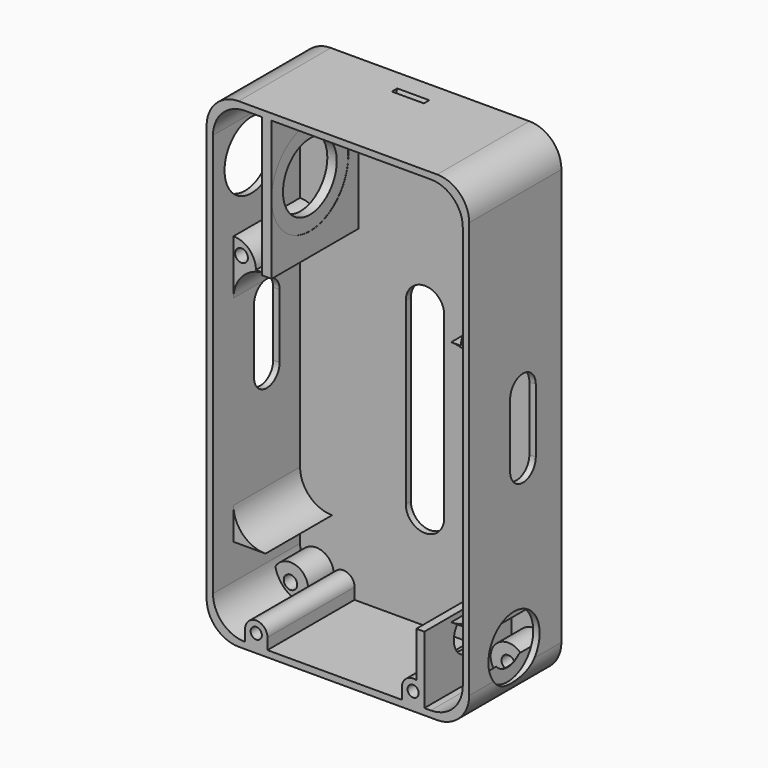
from build123d import *

# Parameters (mm, degrees)
CYLINDER105_R             = 6
CYLINDER105_DEPTH         = 2
BOX042_W                  = 12
BOX042_H                  = 2
BOX042_DEPTH              = 56
CYLINDER106_R             = 6
CYLINDER106_DEPTH         = 2
CYLINDER104_W             = 5
CYLINDER104_H             = 82
CYLINDER104_ANGLE         = 180
BOX041_W                  = 82
BOX041_H                  = 5
BOX041_DEPTH              = 10
CUT048_PLACEMENT_ANGLE    = 180
CYLINDER103_W             = 5
CYLINDER103_H             = 82
CYLINDER103_ANGLE         = 180
BOX040_W                  = 82
BOX040_H                  = 5
BOX040_DEPTH              = 10
BOX039_W                  = 82
BOX039_H                  = 30
BOX039_DEPTH              = 10
CUT049_PLACEMENT_ANGLE    = 90
CYLINDER097_R             = 10
CYLINDER097_DEPTH         = 5
CYLINDER096_R             = 6
CYLINDER096_DEPTH         = 20
FUSION028_PLACEMENT_ANGLE = 90
TUBE_R                    = 7
TUBE_R_2                  = 5
TUBE_DEPTH                = 10
CYLINDER099_R             = 15
CYLINDER099_DEPTH         = 2.25
CYLINDER098_R             = 10.5
CYLINDER098_DEPTH         = 36
FUSION029_PLACEMENT_ANGLE = 90
CYLINDER102_W             = 5
CYLINDER102_H             = 60
CYLINDER102_ANGLE         = 90
BOX038_W                  = 3
BOX038_H                  = 43.5
BOX038_DEPTH              = 34
CYLINDER093_R             = 2.1
CYLINDER093_DEPTH         = 7
CYLINDER094_R             = 2.1
CYLINDER094_DEPTH         = 7
CYLINDER095_R             = 2.1
CYLINDER095_DEPTH         = 7
CYLINDER092_R             = 2.1
CYLINDER092_DEPTH         = 7
CYLINDER087_R             = 3.75
CYLINDER087_DEPTH         = 7
CYLINDER089_R             = 3.75
CYLINDER089_DEPTH         = 7
CYLINDER091_R             = 3.75
CYLINDER091_DEPTH         = 7
CYLINDER085_R             = 3.75
CYLINDER085_DEPTH         = 7
CYLINDER086_R             = 5.5
CYLINDER086_DEPTH         = 12
CYLINDER088_R             = 5.5
CYLINDER088_DEPTH         = 12
CYLINDER090_R             = 5.5
CYLINDER090_DEPTH         = 12
CYLINDER030_R             = 2
CYLINDER030_DEPTH         = 8
CYLINDER029_R             = 2
CYLINDER029_DEPTH         = 8
CYLINDER027_W             = 7
CYLINDER027_H             = 26
CYLINDER027_ANGLE         = 90
CYLINDER028_W             = 7
CYLINDER028_H             = 26
CYLINDER028_ANGLE         = 90
CYLINDER022_R             = 1.75
CYLINDER022_DEPTH         = 8
CYLINDER026_R             = 7
CYLINDER026_DEPTH         = 5
CYLINDER025_R             = 6
CYLINDER025_DEPTH         = 20
FUSION007_PLACEMENT_ANGLE = 90
CYLINDER024_R             = 1.75
CYLINDER024_DEPTH         = 8
CYLINDER023_R             = 3.5
CYLINDER023_DEPTH         = 34
BOX022_W                  = 7
BOX022_H                  = 34
BOX022_DEPTH              = 3.5
BOX023_W                  = 7
BOX023_H                  = 34
BOX023_DEPTH              = 3.5
BOX024_W                  = 2.5
BOX024_H                  = 34
BOX024_DEPTH              = 17.5
CYLINDER017_W             = 10
CYLINDER017_H             = 26
CYLINDER017_ANGLE         = 90
BOX018_W                  = 10
BOX018_H                  = 26
BOX018_DEPTH              = 10
CUT018_PLACEMENT_ANGLE    = 180
CYLINDER018_W             = 10
CYLINDER018_H             = 26
CYLINDER018_ANGLE         = 90
BOX019_W                  = 10
BOX019_H                  = 26
BOX019_DEPTH              = 10
CUT019_PLACEMENT_ANGLE    = 90
CYLINDER019_W             = 10
CYLINDER019_H             = 26
CYLINDER019_ANGLE         = 90
BOX020_W                  = 10
BOX020_H                  = 26
BOX020_DEPTH              = 10
CYLINDER020_W             = 10
CYLINDER020_H             = 26
CYLINDER020_ANGLE         = 90
BOX021_W                  = 10
BOX021_H                  = 26
BOX021_DEPTH              = 10
CUT021_PLACEMENT_ANGLE    = 90
CYLINDER014_W             = 10
CYLINDER014_H             = 34
CYLINDER014_ANGLE         = 90
BOX015_W                  = 10
BOX015_H                  = 34
BOX015_DEPTH              = 10
CUT013_PLACEMENT_ANGLE    = 180
CYLINDER015_W             = 10
CYLINDER015_H             = 34
CYLINDER015_ANGLE         = 90
BOX016_W                  = 10
BOX016_H                  = 34
BOX016_DEPTH              = 10
CUT014_PLACEMENT_ANGLE    = 180
CYLINDER016_W             = 10
CYLINDER016_H             = 34
CYLINDER016_ANGLE         = 90
BOX017_W                  = 10
BOX017_H                  = 34
BOX017_DEPTH              = 10
CUT015_PITCH_ANGLE        = -90
CUT015_PLACEMENT_ANGLE    = -180
CYLINDER013_W             = 10
CYLINDER013_H             = 34
CYLINDER013_ANGLE         = 90
BOX013_W                  = 10
BOX013_H                  = 34
BOX013_DEPTH              = 10
CUT012_PITCH_ANGLE        = 90
CUT012_PLACEMENT_ANGLE    = -180
BOX014_W                  = 78
BOX014_H                  = 34
BOX014_DEPTH              = 146
CYLINDER009_W             = 10
CYLINDER009_H             = 36
CYLINDER009_ANGLE         = 90
BOX009_W                  = 10
BOX009_H                  = 36
BOX009_DEPTH              = 10
CUT007_PLACEMENT_ANGLE    = 180
CYLINDER010_W             = 10
CYLINDER010_H             = 36
CYLINDER010_ANGLE         = 90
BOX010_W                  = 10
BOX010_H                  = 36
BOX010_DEPTH              = 10
CUT008_PLACEMENT_ANGLE    = 180
CYLINDER011_W             = 10
CYLINDER011_H             = 36
CYLINDER011_ANGLE         = 90
BOX011_W                  = 10
BOX011_H                  = 36
BOX011_DEPTH              = 10
CUT009_PITCH_ANGLE        = -90
CUT009_PLACEMENT_ANGLE    = -180
CYLINDER008_W             = 10
CYLINDER008_H             = 36
CYLINDER008_ANGLE         = 90
BOX007_W                  = 10
BOX007_H                  = 36
BOX007_DEPTH              = 10
CUT006_PITCH_ANGLE        = 90
CUT006_PLACEMENT_ANGLE    = -180
BOX008_W                  = 82
BOX008_H                  = 36
BOX008_DEPTH              = 150
CYLINDER021_R             = 3.5
CYLINDER021_DEPTH         = 34
CYLINDER084_R             = 5.5
CYLINDER084_DEPTH         = 12


with BuildPart() as cylinder105:
    # Cylinder105 → Cylinder105 (new body)
    with BuildSketch(Plane(origin=(6, 0, 0), x_dir=(-1, 0, 0), z_dir=(0, 1, 0))):
        Circle(CYLINDER105_R)
    extrude(amount=CYLINDER105_DEPTH)


with BuildPart() as cube034:
    # Box042 → Box042 (new body)
    with BuildSketch(Plane.XY):
        with Locations((6, 1)):
            Rectangle(BOX042_W, BOX042_H)
    extrude(amount=BOX042_DEPTH)


with BuildPart() as obj1:
    # Cylinder106 → Cylinder106 (new body)
    with BuildSketch(Plane(origin=(6, 0, 56), x_dir=(-1, 0, 0), z_dir=(0, 1, 0))):
        Circle(CYLINDER106_R)
    extrude(amount=CYLINDER106_DEPTH)

    # Fusion035: union Cylinder105, Cube034
    add(cylinder105.part)
    add(cube034.part)


with BuildPart() as obj1_1:
    # Fusion035 placement: moved
    add(obj1.part.moved(Location((33, 24, 31.5))))


with BuildPart() as cylinder104:
    # Cylinder104 → Cylinder104 (revolve)
    with BuildSketch(Plane(origin=(0, 5, 5), x_dir=(0, 0, 1), z_dir=(0, 1, 0))):
        with Locations((2.5, 41)):
            Rectangle(CYLINDER104_W, CYLINDER104_H)
    revolve(axis=Axis((0, 5, 5), (1, 0, 0)), revolution_arc=CYLINDER104_ANGLE)


with BuildPart() as cornercuts001:
    # Box041 → Box041 (new body)
    with BuildSketch(Plane.XY):
        with Locations((41, 2.5)):
            Rectangle(BOX041_W, BOX041_H)
    extrude(amount=BOX041_DEPTH)

    # Cut048: cut Cylinder104
    add(cylinder104.part, mode=Mode.SUBTRACT)


with BuildPart() as cornercuts001_1:
    # Cut048 placement: moved
    add(cornercuts001.part.moved(Location((0, 30, 10))).rotate(Axis((0, 30, 10), (1, 0, 0)), CUT048_PLACEMENT_ANGLE))


with BuildPart() as cylinder103:
    # Cylinder103 → Cylinder103 (revolve)
    with BuildSketch(Plane(origin=(0, 5, 5), x_dir=(0, 0, 1), z_dir=(0, 1, 0))):
        with Locations((2.5, 41)):
            Rectangle(CYLINDER103_W, CYLINDER103_H)
    revolve(axis=Axis((0, 5, 5), (1, 0, 0)), revolution_arc=CYLINDER103_ANGLE)


with BuildPart() as fusion034:
    # Box040 → Box040 (new body)
    with BuildSketch(Plane.XY):
        with Locations((41, 2.5)):
            Rectangle(BOX040_W, BOX040_H)
    extrude(amount=BOX040_DEPTH)

    # Cut047: cut Cylinder103
    add(cylinder103.part, mode=Mode.SUBTRACT)

    # Fusion034: union cornerCuts001
    add(cornercuts001_1.part)


with BuildPart() as usbcut001:
    # Box039 → Box039 (new body)
    with BuildSketch(Plane.XY):
        with Locations((41, 15)):
            Rectangle(BOX039_W, BOX039_H)
    extrude(amount=BOX039_DEPTH)

    # Cut049: cut Fusion034
    add(fusion034.part, mode=Mode.SUBTRACT)


with BuildPart() as usbcut001_1:
    # Cut049 placement: moved
    add(usbcut001.part.moved(Location((-2, 16, 58))).rotate(Axis((-2, 16, 58), (1, 0, 0)), CUT049_PLACEMENT_ANGLE))


with BuildPart() as cylinder097:
    # Cylinder097 → Cylinder097 (new body)
    with BuildSketch(Plane.XY):
        Circle(CYLINDER097_R)
    extrude(amount=CYLINDER097_DEPTH)


with BuildPart() as switch:
    # Cylinder096 → Cylinder096 (new body)
    with BuildSketch(Plane.XY):
        Circle(CYLINDER096_R)
    extrude(amount=CYLINDER096_DEPTH)

    # Fusion028: union Cylinder097
    add(cylinder097.part)


with BuildPart() as switch_1:
    # Fusion028 placement: moved
    add(switch.part.moved(Location((83, 7.5, 14))).rotate(Axis((83, 7.5, 14), (0, -1, 0)), FUSION028_PLACEMENT_ANGLE))


with BuildPart() as hookcut:
    # Tube → Tube (new body)
    with BuildSketch(Plane(origin=(34, 24, 146), x_dir=(0, 0, -1), z_dir=(1, 0, 0))):
        Circle(TUBE_R)
        Circle(TUBE_R_2, mode=Mode.SUBTRACT)
    extrude(amount=TUBE_DEPTH)


with BuildPart() as ethernet001:
    # Cylinder099 → Cylinder099 (new body)
    with BuildSketch(Plane.XY.offset(13.5)):
        Circle(CYLINDER099_R)
    extrude(amount=CYLINDER099_DEPTH)


with BuildPart() as basebottomcuts:
    # Cylinder098 → Cylinder098 (new body)
    with BuildSketch(Plane.XY):
        Circle(CYLINDER098_R)
    extrude(amount=CYLINDER098_DEPTH)

    # Fusion029: union Ethernet001
    add(ethernet001.part)


with BuildPart() as basebottomcuts_1:
    # Fusion029 placement: moved
    add(basebottomcuts.part.moved(Location((34, 5, 124.5))).rotate(Axis((34, 5, 124.5), (0, -1, 0)), FUSION029_PLACEMENT_ANGLE))

    # Fusion033: union Switch, hookCut
    add(switch_1.part)
    add(hookcut.part)


with BuildPart() as obj2:
    # Cylinder102 → Cylinder102 (revolve)
    with BuildSketch(Plane(origin=(9, 24, 146), x_dir=(0, -1, 0), z_dir=(0, 0, 1))):
        with Locations((2.5, 30)):
            Rectangle(CYLINDER102_W, CYLINDER102_H)
    revolve(axis=Axis((9, 24, 146), (1, 0, 0)), revolution_arc=CYLINDER102_ANGLE)


with BuildPart() as ethernethold:
    # Box038 → Box038 (new body)
    with BuildSketch(Plane(origin=(15.3, 24, 102.5), x_dir=(1, 0, 0), z_dir=(0, -1, 0))):
        with Locations((1.5, 21.75)):
            Rectangle(BOX038_W, BOX038_H)
    extrude(amount=BOX038_DEPTH)


with BuildPart() as m4holebasecut005:
    # Cylinder093 → Cylinder093 (new body)
    with BuildSketch(Plane(origin=(5, 26, 5), x_dir=(-1, 0, 0), z_dir=(0, -1, 0))):
        Circle(CYLINDER093_R)
    extrude(amount=CYLINDER093_DEPTH)


with BuildPart() as m4holebasecut006:
    # Cylinder094 → Cylinder094 (new body)
    with BuildSketch(Plane(origin=(73, 26, 141), x_dir=(-1, 0, 0), z_dir=(0, -1, 0))):
        Circle(CYLINDER094_R)
    extrude(amount=CYLINDER094_DEPTH)


with BuildPart() as m4holebasecut007:
    # Cylinder095 → Cylinder095 (new body)
    with BuildSketch(Plane(origin=(5, 26, 141), x_dir=(-1, 0, 0), z_dir=(0, -1, 0))):
        Circle(CYLINDER095_R)
    extrude(amount=CYLINDER095_DEPTH)


with BuildPart() as m4cuts001:
    # Cylinder092 → Cylinder092 (new body)
    with BuildSketch(Plane(origin=(73, 26, 5), x_dir=(-1, 0, 0), z_dir=(0, -1, 0))):
        Circle(CYLINDER092_R)
    extrude(amount=CYLINDER092_DEPTH)

    # Fusion027: union m4HoleBaseCut005, m4HoleBaseCut006, m4HoleBaseCut007
    add(m4holebasecut005.part)
    add(m4holebasecut006.part)
    add(m4holebasecut007.part)


with BuildPart() as m4cuts001_1:
    # Fusion027 placement: moved
    add(m4cuts001.part.moved(Location((0, -5, 0))))


with BuildPart() as m4holebasecut001:
    # Cylinder087 → Cylinder087 (new body)
    with BuildSketch(Plane(origin=(5, 26, 5), x_dir=(-1, 0, 0), z_dir=(0, -1, 0))):
        Circle(CYLINDER087_R)
    extrude(amount=CYLINDER087_DEPTH)


with BuildPart() as m4holebasecut002:
    # Cylinder089 → Cylinder089 (new body)
    with BuildSketch(Plane(origin=(73, 26, 141), x_dir=(-1, 0, 0), z_dir=(0, -1, 0))):
        Circle(CYLINDER089_R)
    extrude(amount=CYLINDER089_DEPTH)


with BuildPart() as m4holebasecut003:
    # Cylinder091 → Cylinder091 (new body)
    with BuildSketch(Plane(origin=(5, 26, 141), x_dir=(-1, 0, 0), z_dir=(0, -1, 0))):
        Circle(CYLINDER091_R)
    extrude(amount=CYLINDER091_DEPTH)


with BuildPart() as m4cuts:
    # Cylinder085 → Cylinder085 (new body)
    with BuildSketch(Plane(origin=(73, 26, 5), x_dir=(-1, 0, 0), z_dir=(0, -1, 0))):
        Circle(CYLINDER085_R)
    extrude(amount=CYLINDER085_DEPTH)

    # Fusion026: union m4HoleBaseCut001, m4HoleBaseCut002, m4HoleBaseCut003
    add(m4holebasecut001.part)
    add(m4holebasecut002.part)
    add(m4holebasecut003.part)


with BuildPart() as m4holebase007:
    # Cylinder086 → Cylinder086 (new body)
    with BuildSketch(Plane(origin=(5, 26, 5), x_dir=(-1, 0, 0), z_dir=(0, -1, 0))):
        Circle(CYLINDER086_R)
    extrude(amount=CYLINDER086_DEPTH)


with BuildPart() as m4holebase008:
    # Cylinder088 → Cylinder088 (new body)
    with BuildSketch(Plane(origin=(73, 26, 141), x_dir=(-1, 0, 0), z_dir=(0, -1, 0))):
        Circle(CYLINDER088_R)
    extrude(amount=CYLINDER088_DEPTH)


with BuildPart() as m4holebase009:
    # Cylinder090 → Cylinder090 (new body)
    with BuildSketch(Plane(origin=(5, 26, 141), x_dir=(-1, 0, 0), z_dir=(0, -1, 0))):
        Circle(CYLINDER090_R)
    extrude(amount=CYLINDER090_DEPTH)


with BuildPart() as cylinder030:
    # Cylinder030 → Cylinder030 (new body)
    with BuildSketch(Plane(origin=(75.5, -2, 100.5), x_dir=(1, 0, 0), z_dir=(0, -1, 0))):
        Circle(CYLINDER030_R)
    extrude(amount=CYLINDER030_DEPTH)


with BuildPart() as basecuts001:
    # Cylinder029 → Cylinder029 (new body)
    with BuildSketch(Plane(origin=(2.5, -2, 100.5), x_dir=(1, 0, 0), z_dir=(0, -1, 0))):
        Circle(CYLINDER029_R)
    extrude(amount=CYLINDER029_DEPTH)

    # Fusion011: union Cylinder030
    add(cylinder030.part)


with BuildPart() as basecuts001_1:
    # Fusion011 placement: moved
    add(basecuts001.part.moved(Location((0, 8, 0))))


with BuildPart() as mainmounts:
    # Cylinder027 → Cylinder027 (revolve)
    with BuildSketch(Plane(origin=(0, 24, 98), x_dir=(1, 0, 0), z_dir=(0, 0, -1))):
        with Locations((3.5, 13)):
            Rectangle(CYLINDER027_W, CYLINDER027_H)
    revolve(axis=Axis((0, 24, 98), (0, -1, 0)), revolution_arc=CYLINDER027_ANGLE)


with BuildPart() as fusion012:
    # Cylinder028 → Cylinder028 (revolve)
    with BuildSketch(Plane(origin=(78, 24, 98), x_dir=(0, 0, 1), z_dir=(1, 0, 0))):
        with Locations((3.5, 13)):
            Rectangle(CYLINDER028_W, CYLINDER028_H)
    revolve(axis=Axis((78, 24, 98), (0, -1, 0)), revolution_arc=CYLINDER028_ANGLE)

    # Fusion012: union mainMounts
    add(mainmounts.part)


with BuildPart() as cylinder022:
    # Cylinder022 → Cylinder022 (new body)
    with BuildSketch(Plane(origin=(13.5, -2, 3.5), x_dir=(1, 0, 0), z_dir=(0, -1, 0))):
        Circle(CYLINDER022_R)
    extrude(amount=CYLINDER022_DEPTH)


with BuildPart() as cylinder026:
    # Cylinder026 → Cylinder026 (new body)
    with BuildSketch(Plane.XY):
        Circle(CYLINDER026_R)
    extrude(amount=CYLINDER026_DEPTH)


with BuildPart() as powerswitch:
    # Cylinder025 → Cylinder025 (new body)
    with BuildSketch(Plane.XY):
        Circle(CYLINDER025_R)
    extrude(amount=CYLINDER025_DEPTH)

    # Fusion007: union Cylinder026
    add(cylinder026.part)


with BuildPart() as powerswitch_1:
    # Fusion007 placement: moved
    add(powerswitch.part.moved(Location((71, 7.5, 14))).rotate(Axis((71, 7.5, 14), (0, -1, 0)), FUSION007_PLACEMENT_ANGLE))


with BuildPart() as basecuts:
    # Cylinder024 → Cylinder024 (new body)
    with BuildSketch(Plane(origin=(62.5, -2, 3.5), x_dir=(1, 0, 0), z_dir=(0, -1, 0))):
        Circle(CYLINDER024_R)
    extrude(amount=CYLINDER024_DEPTH)

    # Fusion010: union Cylinder022, powerSwitch
    add(cylinder022.part)
    add(powerswitch_1.part)


with BuildPart() as cylinder023:
    # Cylinder023 → Cylinder023 (new body)
    with BuildSketch(Plane(origin=(62.5, 24, 3.5), x_dir=(1, 0, 0), z_dir=(0, -1, 0))):
        Circle(CYLINDER023_R)
    extrude(amount=CYLINDER023_DEPTH)


with BuildPart() as cube017:
    # Box022 → Box022 (new body)
    with BuildSketch(Plane(origin=(10, 24, 3.5), x_dir=(1, 0, 0), z_dir=(0, 0, -1))):
        with Locations((3.5, 17)):
            Rectangle(BOX022_W, BOX022_H)
    extrude(amount=BOX022_DEPTH)


with BuildPart() as cube018:
    # Box023 → Box023 (new body)
    with BuildSketch(Plane(origin=(59, 24, 3.5), x_dir=(1, 0, 0), z_dir=(0, 0, -1))):
        with Locations((3.5, 17)):
            Rectangle(BOX023_W, BOX023_H)
    extrude(amount=BOX023_DEPTH)


with BuildPart() as cube019:
    # Box024 → Box024 (new body)
    with BuildSketch(Plane(origin=(63.5, 24, 21), x_dir=(1, 0, 0), z_dir=(0, 0, -1))):
        with Locations((1.25, 17)):
            Rectangle(BOX024_W, BOX024_H)
    extrude(amount=BOX024_DEPTH)


with BuildPart() as cylinder017:
    # Cylinder017 → Cylinder017 (revolve)
    with BuildSketch(Plane(origin=(0, 26, 0), x_dir=(1, 0, 0), z_dir=(0, 0, -1))):
        with Locations((5, 13)):
            Rectangle(CYLINDER017_W, CYLINDER017_H)
    revolve(axis=Axis((0, 26, 0), (0, -1, 0)), revolution_arc=CYLINDER017_ANGLE)


with BuildPart() as batterysupport:
    # Box018 → Box018 (new body)
    with BuildSketch(Plane(origin=(10, 26, 0), x_dir=(-1, 0, 0), z_dir=(0, 0, 1))):
        with Locations((5, 13)):
            Rectangle(BOX018_W, BOX018_H)
    extrude(amount=BOX018_DEPTH)

    # Cut018: cut Cylinder017
    add(cylinder017.part, mode=Mode.SUBTRACT)


with BuildPart() as batterysupport_1:
    # Cut018 placement: moved
    add(batterysupport.part.moved(Location((10, -2, 31))).rotate(Axis((10, -2, 31), (0, 1, 0)), CUT018_PLACEMENT_ANGLE))


with BuildPart() as cylinder018:
    # Cylinder018 → Cylinder018 (revolve)
    with BuildSketch(Plane(origin=(0, 26, 0), x_dir=(1, 0, 0), z_dir=(0, 0, -1))):
        with Locations((5, 13)):
            Rectangle(CYLINDER018_W, CYLINDER018_H)
    revolve(axis=Axis((0, 26, 0), (0, -1, 0)), revolution_arc=CYLINDER018_ANGLE)


with BuildPart() as batterysupport001:
    # Box019 → Box019 (new body)
    with BuildSketch(Plane(origin=(10, 26, 0), x_dir=(-1, 0, 0), z_dir=(0, 0, 1))):
        with Locations((5, 13)):
            Rectangle(BOX019_W, BOX019_H)
    extrude(amount=BOX019_DEPTH)

    # Cut019: cut Cylinder018
    add(cylinder018.part, mode=Mode.SUBTRACT)


with BuildPart() as batterysupport001_1:
    # Cut019 placement: moved
    add(batterysupport001.part.moved(Location((68, -2, 31))).rotate(Axis((68, -2, 31), (0, 1, 0)), CUT019_PLACEMENT_ANGLE))


with BuildPart() as cylinder019:
    # Cylinder019 → Cylinder019 (revolve)
    with BuildSketch(Plane(origin=(0, 26, 0), x_dir=(1, 0, 0), z_dir=(0, 0, -1))):
        with Locations((5, 13)):
            Rectangle(CYLINDER019_W, CYLINDER019_H)
    revolve(axis=Axis((0, 26, 0), (0, -1, 0)), revolution_arc=CYLINDER019_ANGLE)


with BuildPart() as batterysupport002:
    # Box020 → Box020 (new body)
    with BuildSketch(Plane(origin=(10, 26, 0), x_dir=(-1, 0, 0), z_dir=(0, 0, 1))):
        with Locations((5, 13)):
            Rectangle(BOX020_W, BOX020_H)
    extrude(amount=BOX020_DEPTH)

    # Cut020: cut Cylinder019
    add(cylinder019.part, mode=Mode.SUBTRACT)


with BuildPart() as batterysupport002_1:
    # Cut020 placement: moved
    add(batterysupport002.part.moved(Location((68, -2, 88))))


with BuildPart() as cylinder020:
    # Cylinder020 → Cylinder020 (revolve)
    with BuildSketch(Plane(origin=(0, 26, 0), x_dir=(1, 0, 0), z_dir=(0, 0, -1))):
        with Locations((5, 13)):
            Rectangle(CYLINDER020_W, CYLINDER020_H)
    revolve(axis=Axis((0, 26, 0), (0, -1, 0)), revolution_arc=CYLINDER020_ANGLE)


with BuildPart() as batterysupport003:
    # Box021 → Box021 (new body)
    with BuildSketch(Plane(origin=(10, 26, 0), x_dir=(-1, 0, 0), z_dir=(0, 0, 1))):
        with Locations((5, 13)):
            Rectangle(BOX021_W, BOX021_H)
    extrude(amount=BOX021_DEPTH)

    # Cut021: cut Cylinder020
    add(cylinder020.part, mode=Mode.SUBTRACT)


with BuildPart() as batterysupport003_1:
    # Cut021 placement: moved
    add(batterysupport003.part.moved(Location((10, -2, 88))).rotate(Axis((10, -2, 88), (0, -1, 0)), CUT021_PLACEMENT_ANGLE))


with BuildPart() as cylinder014:
    # Cylinder014 → Cylinder014 (revolve)
    with BuildSketch(Plane(origin=(0, 26, 0), x_dir=(1, 0, 0), z_dir=(0, 0, -1))):
        with Locations((5, 17)):
            Rectangle(CYLINDER014_W, CYLINDER014_H)
    revolve(axis=Axis((0, 26, 0), (0, -1, 0)), revolution_arc=CYLINDER014_ANGLE)


with BuildPart() as cut013:
    # Box015 → Box015 (new body)
    with BuildSketch(Plane(origin=(0, -8, 0), x_dir=(1, 0, 0), z_dir=(0, 0, 1))):
        with Locations((5, 17)):
            Rectangle(BOX015_W, BOX015_H)
    extrude(amount=BOX015_DEPTH)

    # Cut013: cut Cylinder014
    add(cylinder014.part, mode=Mode.SUBTRACT)


with BuildPart() as cut013_1:
    # Cut013 placement: moved
    add(cut013.part.moved(Location((70, 18, 8))).rotate(Axis((70, 18, 8), (1, 0, 0)), CUT013_PLACEMENT_ANGLE))


with BuildPart() as cylinder015:
    # Cylinder015 → Cylinder015 (revolve)
    with BuildSketch(Plane(origin=(0, 26, 0), x_dir=(1, 0, 0), z_dir=(0, 0, -1))):
        with Locations((5, 17)):
            Rectangle(CYLINDER015_W, CYLINDER015_H)
    revolve(axis=Axis((0, 26, 0), (0, -1, 0)), revolution_arc=CYLINDER015_ANGLE)


with BuildPart() as cut014:
    # Box016 → Box016 (new body)
    with BuildSketch(Plane(origin=(0, -8, 0), x_dir=(1, 0, 0), z_dir=(0, 0, 1))):
        with Locations((5, 17)):
            Rectangle(BOX016_W, BOX016_H)
    extrude(amount=BOX016_DEPTH)

    # Cut014: cut Cylinder015
    add(cylinder015.part, mode=Mode.SUBTRACT)


with BuildPart() as cut014_1:
    # Cut014 placement: moved
    add(cut014.part.moved(Location((12, 18, 134))).rotate(Axis((12, 18, 134), (0, 0, 1)), CUT014_PLACEMENT_ANGLE))


with BuildPart() as cylinder016:
    # Cylinder016 → Cylinder016 (revolve)
    with BuildSketch(Plane(origin=(0, 26, 0), x_dir=(1, 0, 0), z_dir=(0, 0, -1))):
        with Locations((5, 17)):
            Rectangle(CYLINDER016_W, CYLINDER016_H)
    revolve(axis=Axis((0, 26, 0), (0, -1, 0)), revolution_arc=CYLINDER016_ANGLE)


with BuildPart() as cut015:
    # Box017 → Box017 (new body)
    with BuildSketch(Plane(origin=(0, -8, 0), x_dir=(1, 0, 0), z_dir=(0, 0, 1))):
        with Locations((5, 17)):
            Rectangle(BOX017_W, BOX017_H)
    extrude(amount=BOX017_DEPTH)

    # Cut015: cut Cylinder016
    add(cylinder016.part, mode=Mode.SUBTRACT)


with BuildPart() as cut015_1:
    # Cut015 pitch: moved
    add(cut015.part.rotate(Axis((0, 0, 0), (0, 1, 0)), CUT015_PITCH_ANGLE))


with BuildPart() as cut015_2:
    # Cut015 placement: moved
    add(cut015_1.part.moved(Location((70, 18, 134))).rotate(Axis((70, 18, 134), (0, 0, 1)), CUT015_PLACEMENT_ANGLE))


with BuildPart() as cylinder013:
    # Cylinder013 → Cylinder013 (revolve)
    with BuildSketch(Plane(origin=(0, 26, 0), x_dir=(1, 0, 0), z_dir=(0, 0, -1))):
        with Locations((5, 17)):
            Rectangle(CYLINDER013_W, CYLINDER013_H)
    revolve(axis=Axis((0, 26, 0), (0, -1, 0)), revolution_arc=CYLINDER013_ANGLE)


with BuildPart() as fusion006:
    # Box013 → Box013 (new body)
    with BuildSketch(Plane(origin=(0, -8, 0), x_dir=(1, 0, 0), z_dir=(0, 0, 1))):
        with Locations((5, 17)):
            Rectangle(BOX013_W, BOX013_H)
    extrude(amount=BOX013_DEPTH)

    # Cut012: cut Cylinder013
    add(cylinder013.part, mode=Mode.SUBTRACT)


with BuildPart() as fusion006_1:
    # Cut012 pitch: moved
    add(fusion006.part.rotate(Axis((0, 0, 0), (0, 1, 0)), CUT012_PITCH_ANGLE))


with BuildPart() as fusion006_2:
    # Cut012 placement: moved
    add(fusion006_1.part.moved(Location((12, 18, 8))).rotate(Axis((12, 18, 8), (0, 0, 1)), CUT012_PLACEMENT_ANGLE))

    # Fusion006: union Cut013, Cut014, Cut015
    add(cut013_1.part)
    add(cut014_1.part)
    add(cut015_2.part)


with BuildPart() as obj3:
    # Box014 → Box014 (new body)
    with BuildSketch(Plane(origin=(80, 26, -2), x_dir=(-1, 0, 0), z_dir=(0, 0, 1))):
        with Locations((39, 17)):
            Rectangle(BOX014_W, BOX014_H)
    extrude(amount=BOX014_DEPTH)

    # Cut016: cut Fusion006
    add(fusion006_2.part, mode=Mode.SUBTRACT)


with BuildPart() as obj3_1:
    # Cut016 placement: moved
    add(obj3.part.moved(Location((-2, -2, 2))))


with BuildPart() as cylinder009:
    # Cylinder009 → Cylinder009 (revolve)
    with BuildSketch(Plane(origin=(0, 26, 0), x_dir=(1, 0, 0), z_dir=(0, 0, -1))):
        with Locations((5, 18)):
            Rectangle(CYLINDER009_W, CYLINDER009_H)
    revolve(axis=Axis((0, 26, 0), (0, -1, 0)), revolution_arc=CYLINDER009_ANGLE)


with BuildPart() as cut007:
    # Box009 → Box009 (new body)
    with BuildSketch(Plane(origin=(0, -10, 0), x_dir=(1, 0, 0), z_dir=(0, 0, 1))):
        with Locations((5, 18)):
            Rectangle(BOX009_W, BOX009_H)
    extrude(amount=BOX009_DEPTH)

    # Cut007: cut Cylinder009
    add(cylinder009.part, mode=Mode.SUBTRACT)


with BuildPart() as cut007_1:
    # Cut007 placement: moved
    add(cut007.part.moved(Location((70, 18, 8))).rotate(Axis((70, 18, 8), (1, 0, 0)), CUT007_PLACEMENT_ANGLE))


with BuildPart() as cylinder010:
    # Cylinder010 → Cylinder010 (revolve)
    with BuildSketch(Plane(origin=(0, 26, 0), x_dir=(1, 0, 0), z_dir=(0, 0, -1))):
        with Locations((5, 18)):
            Rectangle(CYLINDER010_W, CYLINDER010_H)
    revolve(axis=Axis((0, 26, 0), (0, -1, 0)), revolution_arc=CYLINDER010_ANGLE)


with BuildPart() as cut008:
    # Box010 → Box010 (new body)
    with BuildSketch(Plane(origin=(0, -10, 0), x_dir=(1, 0, 0), z_dir=(0, 0, 1))):
        with Locations((5, 18)):
            Rectangle(BOX010_W, BOX010_H)
    extrude(amount=BOX010_DEPTH)

    # Cut008: cut Cylinder010
    add(cylinder010.part, mode=Mode.SUBTRACT)


with BuildPart() as cut008_1:
    # Cut008 placement: moved
    add(cut008.part.moved(Location((8, 18, 138))).rotate(Axis((8, 18, 138), (0, 0, 1)), CUT008_PLACEMENT_ANGLE))


with BuildPart() as cylinder011:
    # Cylinder011 → Cylinder011 (revolve)
    with BuildSketch(Plane(origin=(0, 26, 0), x_dir=(1, 0, 0), z_dir=(0, 0, -1))):
        with Locations((5, 18)):
            Rectangle(CYLINDER011_W, CYLINDER011_H)
    revolve(axis=Axis((0, 26, 0), (0, -1, 0)), revolution_arc=CYLINDER011_ANGLE)


with BuildPart() as cut009:
    # Box011 → Box011 (new body)
    with BuildSketch(Plane(origin=(0, -10, 0), x_dir=(1, 0, 0), z_dir=(0, 0, 1))):
        with Locations((5, 18)):
            Rectangle(BOX011_W, BOX011_H)
    extrude(amount=BOX011_DEPTH)

    # Cut009: cut Cylinder011
    add(cylinder011.part, mode=Mode.SUBTRACT)


with BuildPart() as cut009_1:
    # Cut009 pitch: moved
    add(cut009.part.rotate(Axis((0, 0, 0), (0, 1, 0)), CUT009_PITCH_ANGLE))


with BuildPart() as cut009_2:
    # Cut009 placement: moved
    add(cut009_1.part.moved(Location((70, 18, 138))).rotate(Axis((70, 18, 138), (0, 0, 1)), CUT009_PLACEMENT_ANGLE))


with BuildPart() as cylinder008:
    # Cylinder008 → Cylinder008 (revolve)
    with BuildSketch(Plane(origin=(0, 26, 0), x_dir=(1, 0, 0), z_dir=(0, 0, -1))):
        with Locations((5, 18)):
            Rectangle(CYLINDER008_W, CYLINDER008_H)
    revolve(axis=Axis((0, 26, 0), (0, -1, 0)), revolution_arc=CYLINDER008_ANGLE)


with BuildPart() as fusion005:
    # Box007 → Box007 (new body)
    with BuildSketch(Plane(origin=(0, -10, 0), x_dir=(1, 0, 0), z_dir=(0, 0, 1))):
        with Locations((5, 18)):
            Rectangle(BOX007_W, BOX007_H)
    extrude(amount=BOX007_DEPTH)

    # Cut006: cut Cylinder008
    add(cylinder008.part, mode=Mode.SUBTRACT)


with BuildPart() as fusion005_1:
    # Cut006 pitch: moved
    add(fusion005.part.rotate(Axis((0, 0, 0), (0, 1, 0)), CUT006_PITCH_ANGLE))


with BuildPart() as fusion005_2:
    # Cut006 placement: moved
    add(fusion005_1.part.moved(Location((8, 18, 8))).rotate(Axis((8, 18, 8), (0, 0, 1)), CUT006_PLACEMENT_ANGLE))

    # Fusion005: union Cut007, Cut008, Cut009
    add(cut007_1.part)
    add(cut008_1.part)
    add(cut009_2.part)


with BuildPart() as fusion005_3:
    # Fusion005 placement: moved
    add(fusion005_2.part.moved(Location((0, -2, 0))))


with BuildPart() as base:
    # Box008 → Box008 (new body)
    with BuildSketch(Plane(origin=(80, 26, -2), x_dir=(-1, 0, 0), z_dir=(0, 0, 1))):
        with Locations((41, 18)):
            Rectangle(BOX008_W, BOX008_H)
    extrude(amount=BOX008_DEPTH)

    # Cut010: cut Fusion005
    add(fusion005_3.part, mode=Mode.SUBTRACT)

    # Cut017: cut obj3
    add(obj3_1.part, mode=Mode.SUBTRACT)

    # Fusion008: union batterySupport, batterySupport001, batterySupport002, batterySupport003
    add(batterysupport_1.part)
    add(batterysupport001_1.part)
    add(batterysupport002_1.part)
    add(batterysupport003_1.part)


with BuildPart() as basebottom:
    # Cylinder021 → Cylinder021 (new body)
    with BuildSketch(Plane(origin=(13.5, 24, 3.5), x_dir=(1, 0, 0), z_dir=(0, -1, 0))):
        Circle(CYLINDER021_R)
    extrude(amount=CYLINDER021_DEPTH)

    # Fusion009: union Cylinder023, Cube017, Cube018, Cube019, base
    add(cylinder023.part)
    add(cube017.part)
    add(cube018.part)
    add(cube019.part)
    add(base.part)

    # Cut022: cut baseCuts
    add(basecuts.part, mode=Mode.SUBTRACT)

    # Fusion013: union Fusion012
    add(fusion012.part)

    # Cut023: cut baseCuts001
    add(basecuts001_1.part, mode=Mode.SUBTRACT)


with BuildPart() as basebottom008:
    # Cylinder084 → Cylinder084 (new body)
    with BuildSketch(Plane(origin=(73, 26, 5), x_dir=(-1, 0, 0), z_dir=(0, -1, 0))):
        Circle(CYLINDER084_R)
    extrude(amount=CYLINDER084_DEPTH)

    # Fusion025: union m4HoleBase007, m4HoleBase008, m4HoleBase009, baseBottom
    add(m4holebase007.part)
    add(m4holebase008.part)
    add(m4holebase009.part)
    add(basebottom.part)

    # Cut044: cut m4Cuts
    add(m4cuts.part, mode=Mode.SUBTRACT)

    # Cut045: cut m4Cuts001
    add(m4cuts001_1.part, mode=Mode.SUBTRACT)

    # Fusion031: union ethernetHold
    add(ethernethold.part)

    # Fusion032: union obj2
    add(obj2.part)

    # Cut046: cut baseBottomCuts
    add(basebottomcuts_1.part, mode=Mode.SUBTRACT)

    # Cut050: cut usbCut001
    add(usbcut001_1.part, mode=Mode.SUBTRACT)

    # Cut051: cut obj1
    add(obj1_1.part, mode=Mode.SUBTRACT)


solid = basebottom008.part
